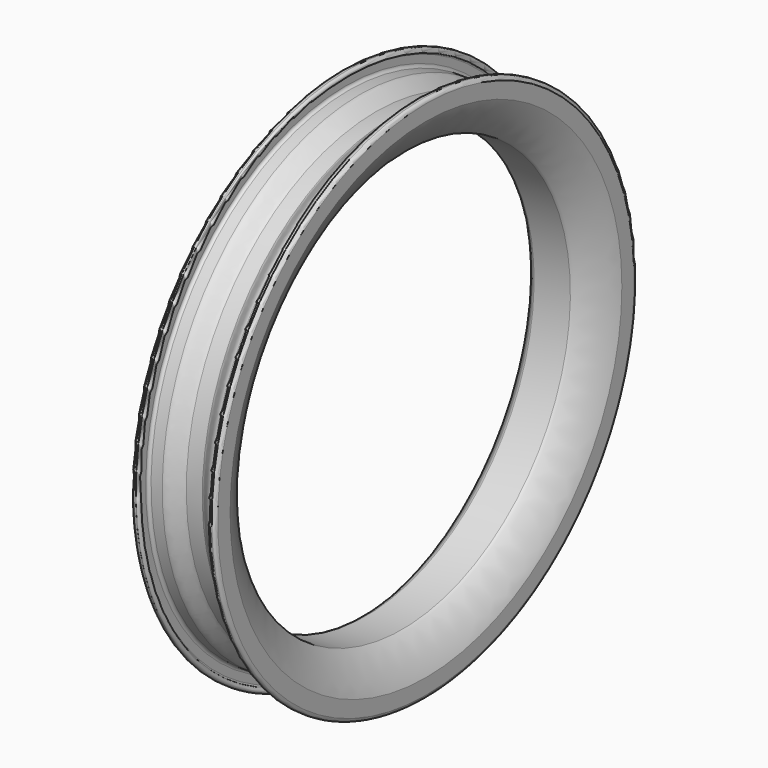
from build123d import *


with BuildPart() as f1:
    # F0 (on Front) → F1 (revolve)
    with BuildSketch(Plane.XZ):
        with BuildLine():
            Line((-8.011808, 49.722563), (-8.011808, 46.76779))
            add(Edge.make_bspline(
                [(-8.011808, 46.76779), (-7.589697, 44.766672), (-4.806893, 40.326692), (-3.462392, 40.170357)],
                knots=[0, 0, 0, 0, 8.013945, 8.013945, 8.013945, 8.013945], degree=3))
            Line((-3.462392, 40.170357), (0, 40.170357))
            Line((0, 40.170357), (3.462392, 40.170357))
            add(Edge.make_bspline(
                [(8.011808, 46.76779), (7.589697, 44.766672), (4.806893, 40.326692), (3.462392, 40.170357)],
                knots=[0, 0, 0, 0, 8.013945, 8.013945, 8.013945, 8.013945], degree=3))
            Line((8.011808, 46.76779), (8.011808, 49.722563))
            ThreePointArc((8.011808, 49.722563), (7.842729, 50.177019), (7.417726, 50.41045))
            Line((7.417726, 50.41045), (7.073784, 50.41045))
            ThreePointArc((7.073784, 50.41045), (6.589138, 49.925804), (7.073784, 49.441159))
            ThreePointArc((7.073784, 49.441159), (7.262039, 49.356619), (7.323924, 49.15975))
            Line((7.323924, 49.15975), (7.323924, 47.721449))
            ThreePointArc((7.323924, 47.721449), (7.159076, 47.323471), (6.761098, 47.158624))
            Line((6.761098, 47.158624), (4.619289, 47.158624))
            add(Edge.make_bspline(
                [(4.619289, 47.158624), (3.571828, 47.158632), (2.211694, 45.298219), (1.52381, 45.298219)],
                knots=[0, 0, 0, 0, 3.611522, 3.611522, 3.611522, 3.611522], degree=3))
            Line((1.52381, 45.298219), (0, 45.298219))
            Line((0, 45.298219), (-1.52381, 45.298219))
            add(Edge.make_bspline(
                [(-4.619289, 47.158624), (-3.571828, 47.158632), (-2.211694, 45.298219), (-1.52381, 45.298219)],
                knots=[0, 0, 0, 0, 3.611522, 3.611522, 3.611522, 3.611522], degree=3))
            Line((-4.619289, 47.158624), (-6.761098, 47.158624))
            ThreePointArc((-6.761098, 47.158624), (-7.159076, 47.323471), (-7.323924, 47.721449))
            Line((-7.323924, 47.721449), (-7.323924, 49.15975))
            ThreePointArc((-7.323924, 49.15975), (-7.262039, 49.356619), (-7.073784, 49.441159))
            ThreePointArc((-7.073784, 49.441159), (-6.589138, 49.925804), (-7.073784, 50.41045))
            Line((-7.073784, 50.41045), (-7.417726, 50.41045))
            ThreePointArc((-7.417726, 50.41045), (-7.842729, 50.177019), (-8.011808, 49.722563))
        make_face()
        with BuildLine():
            add(Edge.make_bspline(
                [(-4.603655, 46.736524), (-3.978305, 46.830326), (-2.524368, 44.938643), (-1.52381, 44.860475)],
                knots=[0, 0, 0, 0, 3.606245, 3.606245, 3.606245, 3.606245], degree=3))
            Line((-1.52381, 44.860475), (0, 44.860475))
            Line((0, 44.860475), (1.52381, 44.860475))
            add(Edge.make_bspline(
                [(4.603655, 46.736524), (3.978305, 46.830326), (2.524368, 44.938643), (1.52381, 44.860475)],
                knots=[0, 0, 0, 0, 3.606245, 3.606245, 3.606245, 3.606245], degree=3))
            Line((4.603655, 46.736524), (6.589138, 46.736524))
            ThreePointArc((6.589138, 46.736524), (7.130086, 46.468974), (7.245754, 45.876667))
            add(Edge.make_bspline(
                [(7.245754, 45.876667), (7.042516, 45.470189), (5.119567, 40.952042), (2.883944, 41.014578)],
                knots=[0, 0, 0, 0, 6.531868, 6.531868, 6.531868, 6.531868], degree=3))
            Line((2.883944, 41.014578), (0, 41.014578))
            Line((0, 41.014578), (-2.883944, 41.014578))
            add(Edge.make_bspline(
                [(-7.245754, 45.876667), (-7.042516, 45.470189), (-5.119567, 40.952042), (-2.883944, 41.014578)],
                knots=[0, 0, 0, 0, 6.531868, 6.531868, 6.531868, 6.531868], degree=3))
            ThreePointArc((-7.245754, 45.876667), (-7.130086, 46.468974), (-6.589138, 46.736524))
            Line((-6.589138, 46.736524), (-4.603655, 46.736524))
        make_face(mode=Mode.SUBTRACT)
    revolve(axis=Axis((0.404584, 0, 0), (1, 0, 0)))


solid = f1.part
